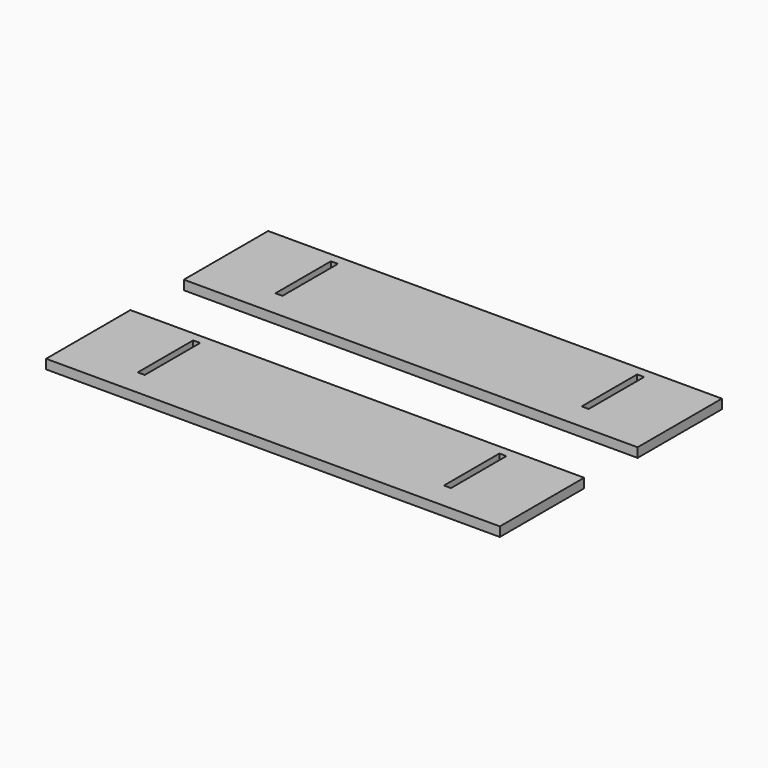
from build123d import *

# Parameters (mm, degrees)
F0_W     = 387.5
F0_H     = 90
F0_W_2   = 6
F0_H_2   = 59.2
F1_DEPTH = 8
F2_DEPTH = 8


with BuildPart() as f1:
    # F0 (on Top) → F1 (new body)
    with BuildSketch(Plane.XY):
        with Locations((157.889637, 4.243225)):
            Rectangle(F0_W, F0_H)
        with Locations((27.139637, 11.643225)):
            Rectangle(F0_W_2, F0_H_2, mode=Mode.SUBTRACT)
        with Locations((288.639637, 11.643225)):
            Rectangle(F0_W_2, F0_H_2, mode=Mode.SUBTRACT)
    extrude(amount=F1_DEPTH)


with BuildPart() as f2:
    # F0 (on Top) → F2 (new body)
    with BuildSketch(Plane.XY):
        with Locations((157.531035, -142.329191)):
            Rectangle(F0_W, F0_H)
        with Locations((26.781035, -134.929191)):
            Rectangle(F0_W_2, F0_H_2, mode=Mode.SUBTRACT)
        with Locations((288.281035, -134.929191)):
            Rectangle(F0_W_2, F0_H_2, mode=Mode.SUBTRACT)
    extrude(amount=F2_DEPTH)


solid = Compound([f1.part, f2.part])
